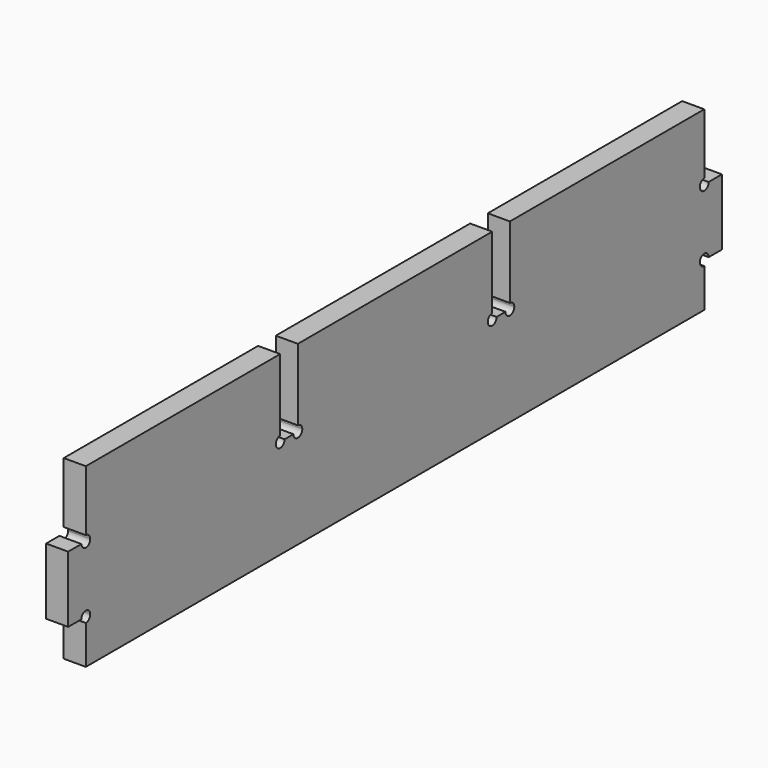
from build123d import *

# Parameters (mm, degrees)
F1_DEPTH = 6.35


with BuildPart() as f1:
    # F0 (on Right) → F1 (new body)
    with BuildSketch(Plane.YZ):
        with BuildLine():
            Line((-49.439288, 22.225), (-119.289288, 22.225))
            Line((-119.289288, 22.225), (-119.289288, 4.7625))
            ThreePointArc((-119.289288, 4.7625), (-118.166756, 4.297532), (-117.701788, 3.175))
            ThreePointArc((-117.701788, 3.175), (-118.166756, 2.052468), (-119.289288, 1.5875))
            Line((-119.289288, 1.5875), (-119.289288, -14.2875))
            ThreePointArc((-119.289288, -14.2875), (-118.166756, -14.752468), (-117.701788, -15.875))
            ThreePointArc((-117.701788, -15.875), (-118.166756, -16.997532), (-119.289288, -17.4625))
            Line((-119.289288, -17.4625), (-119.289288, -28.575))
            Line((-119.289288, -28.575), (102.960712, -28.575))
            Line((102.960712, -28.575), (102.960712, -17.4625))
            ThreePointArc((102.960712, -17.4625), (101.373212, -15.875), (102.960712, -14.2875))
            Line((102.960712, -14.2875), (102.960712, 1.5875))
            ThreePointArc((102.960712, 1.5875), (101.373212, 3.175), (102.960712, 4.7625))
            Line((102.960712, 4.7625), (102.960712, 22.225))
            Line((102.960712, 22.225), (33.110712, 22.225))
            Line((33.110712, 22.225), (33.110712, 1.5875))
            ThreePointArc((33.110712, 1.5875), (34.233244, 1.122532), (34.698212, 0))
            ThreePointArc((34.698212, 0), (33.110712, -1.5875), (31.523212, 0))
            Line((31.523212, 0), (28.348212, 0))
            ThreePointArc((28.348212, 0), (25.63818, -1.122532), (26.760712, 1.5875))
            Line((26.760712, 1.5875), (26.760712, 22.225))
            Line((26.760712, 22.225), (-43.089288, 22.225))
            Line((-43.089288, 22.225), (-43.089288, 1.5875))
            ThreePointArc((-43.089288, 1.5875), (-41.966756, 1.122532), (-41.501788, 0))
            ThreePointArc((-41.501788, 0), (-43.089288, -1.5875), (-44.676788, 0))
            Line((-44.676788, 0), (-47.851788, 0))
            ThreePointArc((-47.851788, 0), (-50.56182, -1.122532), (-49.439288, 1.5875))
            Line((-49.439288, 1.5875), (-49.439288, 22.225))
        make_face()
        with BuildLine():
            ThreePointArc((-119.289288, 1.5875), (-120.41182, 2.052468), (-120.876788, 3.175))
            Line((-120.876788, 3.175), (-125.639288, 3.175))
            Line((-125.639288, 3.175), (-125.639288, -15.875))
            Line((-125.639288, -15.875), (-120.876788, -15.875))
            ThreePointArc((-120.876788, -15.875), (-120.41182, -14.752468), (-119.289288, -14.2875))
            Line((-119.289288, -14.2875), (-119.289288, 1.5875))
        make_face()
        with BuildLine():
            Line((109.310712, 3.175), (104.548212, 3.175))
            ThreePointArc((104.548212, 3.175), (104.083244, 2.052468), (102.960712, 1.5875))
            Line((102.960712, 1.5875), (102.960712, -14.2875))
            ThreePointArc((102.960712, -14.2875), (104.083244, -14.752468), (104.548212, -15.875))
            Line((104.548212, -15.875), (109.310712, -15.875))
            Line((109.310712, -15.875), (109.310712, 3.175))
        make_face()
    extrude(amount=F1_DEPTH)


solid = f1.part
